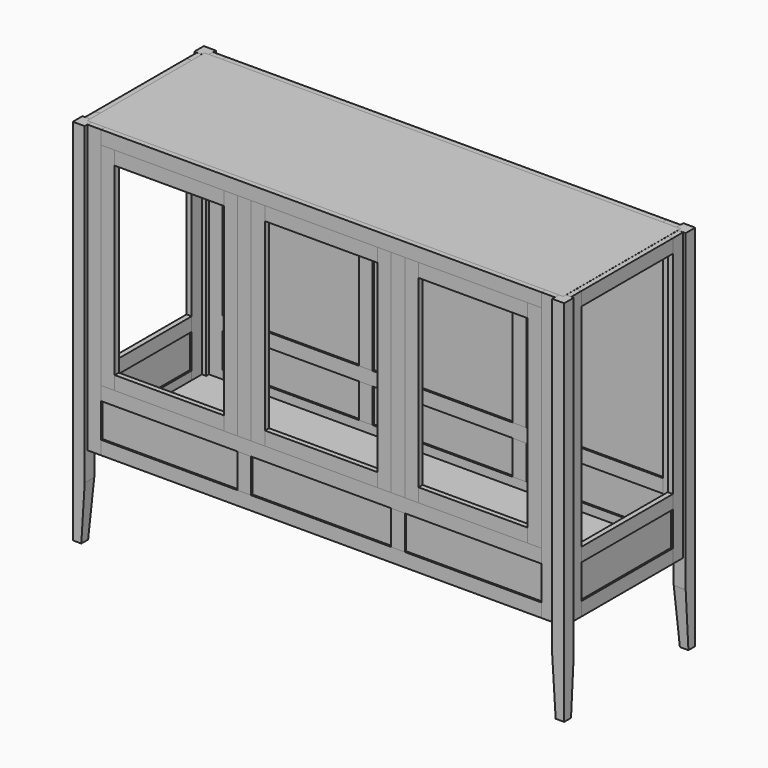
from build123d import *

# Parameters (mm, degrees)
F0_W      = 44.45
F0_H      = 1371.6
F1_DEPTH  = 44.45
F3_DEPTH  = 44.451
F5_DEPTH  = 44.451
F8_W      = 47.625
F8_H      = 1066.8
F9_DEPTH  = 19.05
F11_W     = 425.45
F11_H     = 50.8
F12_DEPTH = 19.05
F13_W     = 425.45
F13_H     = 50.8
F14_DEPTH = 19.05
F15_W     = 425.45
F15_H     = 50.8
F16_DEPTH = 19.05
F18_W     = 425.45
F18_H     = 127
F19_DEPTH = 6.35
F23_W     = 50.8
F23_H     = 1067.1170648575
F24_DEPTH = 19.05
F25_W     = 1638.3
F25_H     = 50.8
F26_DEPTH = 19.05
F28_W     = 1638.3
F28_H     = 50.8
F29_DEPTH = 19.05
F30_W     = 1638.3
F30_H     = 50.8
F31_DEPTH = 19.05
F32_W     = 50.8
F32_H     = 787.7170648575
F33_DEPTH = 19.05
F34_W     = 50.8
F34_H     = 127
F35_DEPTH = 19.05
F38_W     = 508
F38_H     = 127
F39_DEPTH = 6.35
F38_W_2   = 520.7
F41_W     = 50.8
F41_H     = 787.7170648575
F42_DEPTH = 19.05
F43_W     = 50.8
F43_H     = 787.7170648575
F44_DEPTH = 19.05
F45_W     = 406.4
F45_H     = 50.8
F46_DEPTH = 19.05
F47_W     = 406.4
F47_H     = 50.8
F48_DEPTH = 19.05
F50_W     = 50.8
F50_H     = 787.7170648575
F51_DEPTH = 19.05
F52_W     = 50.8
F52_H     = 787.7170648575
F53_DEPTH = 19.05
F54_W     = 419.1
F54_H     = 50.8
F55_DEPTH = 19.05
F56_W     = 419.1
F56_H     = 50.8
F57_DEPTH = 19.05
F58_W     = 508
F58_H     = 787.7170648575
F59_DEPTH = 6.35
F58_W_2   = 520.7
F60_W     = 1771.65
F60_H     = 546.1
F61_DEPTH = 19.05
F62_W     = 1771.65
F62_H     = 546.1
F63_DEPTH = 19.05


with BuildPart() as f1:
    # F0 (on Front) → F1 (new body)
    with BuildSketch(Plane.XZ):
        with Locations((-606.7248311718, 685.8)):
            Rectangle(F0_W, F0_H)
    extrude(amount=F1_DEPTH)

    # F2 (on face) → F3 (cut, through all)
    with BuildSketch(Plane.XZ.offset(44.45)):
        Polygon((-584.4998311718, 203.2), (-597.1998311718, 0), (-584.4998311718, 0), align=None)
    extrude(amount=-F3_DEPTH, mode=Mode.SUBTRACT)

    # F4 (on face) → F5 (cut, through all)
    with BuildSketch(Plane(origin=(-628.9498311718, 0, 0), x_dir=(0, -1, 0), z_dir=(-1, 0, 0))):
        Polygon((12.7, 0), (0, 203.2), (0, 0), align=None)
    extrude(amount=-F5_DEPTH, mode=Mode.SUBTRACT)

    # F8 (on offset) → F9 (join)
    with BuildSketch(Plane(origin=(-619.4248311718, 0, 0), x_dir=(0, -1, 0), z_dir=(-1, 0, 0))):
        with Locations((-23.8125, 837.8829351425)):
            Rectangle(F8_W, F8_H)
    extrude(amount=-F9_DEPTH)


with BuildPart() as f10_1:
    # F10: instance of F1
    add(f1.part.mirror(Plane(origin=(-607.1138401808, 260.35, 699.1636036036), x_dir=(1, 0, 0), z_dir=(0, -1, 0))))


with BuildPart() as f12:
    # F11 (on offset) → F12 (new body)
    with BuildSketch(Plane(origin=(-619.4248311718, 0, 0), x_dir=(0, -1, 0), z_dir=(-1, 0, 0))):
        with Locations((-260.35, 1345.8829351425)):
            Rectangle(F11_W, F11_H)
    extrude(amount=-F12_DEPTH)


with BuildPart() as f14:
    # F13 (on offset) → F14 (new body)
    with BuildSketch(Plane(origin=(-619.4248311718, 0, 0), x_dir=(0, -1, 0), z_dir=(-1, 0, 0))):
        with Locations((-260.35, 329.8829351425)):
            Rectangle(F13_W, F13_H)
    extrude(amount=-F14_DEPTH)


with BuildPart() as f16:
    # F15 (on offset) → F16 (new body)
    with BuildSketch(Plane(origin=(-619.4248311718, 0, 0), x_dir=(0, -1, 0), z_dir=(-1, 0, 0))):
        with Locations((-260.35, 507.6829351425)):
            Rectangle(F15_W, F15_H)
    extrude(amount=-F16_DEPTH)


with BuildPart() as f19:
    # F18 (on offset) → F19 (new body)
    with BuildSketch(Plane(origin=(-613.0748311718, 0, 0), x_dir=(0, -1, 0), z_dir=(-1, 0, 0))):
        with Locations((-260.35, 418.7829351425)):
            Rectangle(F18_W, F18_H)
    extrude(amount=-F19_DEPTH)


with BuildPart() as f21_1:
    # F21: instance of F1
    add(f1.part.mirror(Plane(origin=(285.4501688282, -22.614009009, 699.1636036036), x_dir=(0, -1, 0), z_dir=(-1, 0, 0))))


with BuildPart() as f21_2:
    # F21: instance of F14
    add(f14.part.mirror(Plane(origin=(285.4501688282, -22.614009009, 699.1636036036), x_dir=(0, -1, 0), z_dir=(-1, 0, 0))))


with BuildPart() as f21_3:
    # F21: instance of F12
    add(f12.part.mirror(Plane(origin=(285.4501688282, -22.614009009, 699.1636036036), x_dir=(0, -1, 0), z_dir=(-1, 0, 0))))


with BuildPart() as f21_4:
    # F21: instance of F10_1
    add(f10_1.part.mirror(Plane(origin=(285.4501688282, -22.614009009, 699.1636036036), x_dir=(0, -1, 0), z_dir=(-1, 0, 0))))


with BuildPart() as f21_5:
    # F21: instance of F16
    add(f16.part.mirror(Plane(origin=(285.4501688282, -22.614009009, 699.1636036036), x_dir=(0, -1, 0), z_dir=(-1, 0, 0))))


with BuildPart() as f21_6:
    # F21: instance of F19
    add(f19.part.mirror(Plane(origin=(285.4501688282, -22.614009009, 699.1636036036), x_dir=(0, -1, 0), z_dir=(-1, 0, 0))))


with BuildPart() as f24:
    # F23 (on offset) → F24 (new body)
    with BuildSketch(Plane.XZ.offset(31.75)):
        with Locations((-559.0998311718, 838.0414675713)):
            Rectangle(F23_W, F23_H)
    extrude(amount=-F24_DEPTH)


with BuildPart() as f26:
    # F25 (on offset) → F26 (new body)
    with BuildSketch(Plane.XZ.offset(31.75)):
        with Locations((285.4501688282, 1346.2)):
            Rectangle(F25_W, F25_H)
    extrude(amount=-F26_DEPTH)


with BuildPart() as f27_1:
    # F27: instance of F24
    add(f24.part.mirror(Plane(origin=(285.4501688282, -22.614009009, 699.1636036036), x_dir=(0, -1, 0), z_dir=(-1, 0, 0))))


with BuildPart() as f29:
    # F28 (on offset) → F29 (new body)
    with BuildSketch(Plane.XZ.offset(31.75)):
        with Locations((285.4501688282, 329.8829351425)):
            Rectangle(F28_W, F28_H)
    extrude(amount=-F29_DEPTH)


with BuildPart() as f31:
    # F30 (on offset) → F31 (new body)
    with BuildSketch(Plane.XZ.offset(31.75)):
        with Locations((285.4501688282, 507.6829351425)):
            Rectangle(F30_W, F30_H)
    extrude(amount=-F31_DEPTH)


with BuildPart() as f33:
    # F32 (on offset) → F33 (new body)
    with BuildSketch(Plane.XZ.offset(31.75)):
        with Locations((-0.2998311718, 926.9414675713)):
            Rectangle(F32_W, F32_H)
    extrude(amount=-F33_DEPTH)


with BuildPart() as f35:
    # F34 (on offset) → F35 (new body)
    with BuildSketch(Plane.XZ.offset(31.75)):
        with Locations((-0.2998311718, 418.7829351425)):
            Rectangle(F34_W, F34_H)
    extrude(amount=-F35_DEPTH)


with BuildPart() as f36_1:
    # F36: instance of F33
    add(f33.part.mirror(Plane(origin=(285.4501688282, -22.614009009, 699.1636036036), x_dir=(0, -1, 0), z_dir=(-1, 0, 0))))


with BuildPart() as f36_2:
    # F36: instance of F35
    add(f35.part.mirror(Plane(origin=(285.4501688282, -22.614009009, 699.1636036036), x_dir=(0, -1, 0), z_dir=(-1, 0, 0))))


with BuildPart() as f39:
    # F38 (on offset) → F39 (new body)
    with BuildSketch(Plane.XZ.offset(25.4)):
        with Locations((-279.6998311718, 418.7829351425)):
            Rectangle(F38_W, F38_H)
    extrude(amount=-F39_DEPTH)


with BuildPart() as f39b:
    # F38 (on offset) → F39, piece 2 (new body)
    with BuildSketch(Plane.XZ.offset(25.4)):
        with Locations((285.4501688282, 418.7829351425)):
            Rectangle(F38_W_2, F38_H)
    extrude(amount=-F39_DEPTH)


with BuildPart() as f39c:
    # F38 (on offset) → F39, piece 3 (new body)
    with BuildSketch(Plane.XZ.offset(25.4)):
        with Locations((850.6001688282, 418.7829351425)):
            Rectangle(F38_W, F38_H)
    extrude(amount=-F39_DEPTH)


with BuildPart() as f40_1:
    # F40: instance of F24
    add(f24.part.mirror(Plane(origin=(-607.1138401808, 260.35, 699.1636036036), x_dir=(1, 0, 0), z_dir=(0, -1, 0))))


with BuildPart() as f40_2:
    # F40: instance of F26
    add(f26.part.mirror(Plane(origin=(-607.1138401808, 260.35, 699.1636036036), x_dir=(1, 0, 0), z_dir=(0, -1, 0))))


with BuildPart() as f40_3:
    # F40: instance of F33
    add(f33.part.mirror(Plane(origin=(-607.1138401808, 260.35, 699.1636036036), x_dir=(1, 0, 0), z_dir=(0, -1, 0))))


with BuildPart() as f40_4:
    # F40: instance of F36_1
    add(f36_1.part.mirror(Plane(origin=(-607.1138401808, 260.35, 699.1636036036), x_dir=(1, 0, 0), z_dir=(0, -1, 0))))


with BuildPart() as f40_5:
    # F40: instance of F27_1
    add(f27_1.part.mirror(Plane(origin=(-607.1138401808, 260.35, 699.1636036036), x_dir=(1, 0, 0), z_dir=(0, -1, 0))))


with BuildPart() as f40_6:
    # F40: instance of F31
    add(f31.part.mirror(Plane(origin=(-607.1138401808, 260.35, 699.1636036036), x_dir=(1, 0, 0), z_dir=(0, -1, 0))))


with BuildPart() as f40_7:
    # F40: instance of F29
    add(f29.part.mirror(Plane(origin=(-607.1138401808, 260.35, 699.1636036036), x_dir=(1, 0, 0), z_dir=(0, -1, 0))))


with BuildPart() as f40_8:
    # F40: instance of F36_2
    add(f36_2.part.mirror(Plane(origin=(-607.1138401808, 260.35, 699.1636036036), x_dir=(1, 0, 0), z_dir=(0, -1, 0))))


with BuildPart() as f40_9:
    # F40: instance of F35
    add(f35.part.mirror(Plane(origin=(-607.1138401808, 260.35, 699.1636036036), x_dir=(1, 0, 0), z_dir=(0, -1, 0))))


with BuildPart() as f40_10:
    # F40: instance of F39
    add(f39.part.mirror(Plane(origin=(-607.1138401808, 260.35, 699.1636036036), x_dir=(1, 0, 0), z_dir=(0, -1, 0))))


with BuildPart() as f40_11:
    # F40: instance of F39b
    add(f39b.part.mirror(Plane(origin=(-607.1138401808, 260.35, 699.1636036036), x_dir=(1, 0, 0), z_dir=(0, -1, 0))))


with BuildPart() as f40_12:
    # F40: instance of F39c
    add(f39c.part.mirror(Plane(origin=(-607.1138401808, 260.35, 699.1636036036), x_dir=(1, 0, 0), z_dir=(0, -1, 0))))


with BuildPart() as f42:
    # F41 (on offset) → F42 (new body)
    with BuildSketch(Plane.XZ.offset(31.75)):
        with Locations((-508.2998311718, 926.9414675713)):
            Rectangle(F41_W, F41_H)
    extrude(amount=-F42_DEPTH)


with BuildPart() as f44:
    # F43 (on offset) → F44 (new body)
    with BuildSketch(Plane.XZ.offset(31.75)):
        with Locations((-51.0998311718, 926.9414675713)):
            Rectangle(F43_W, F43_H)
    extrude(amount=-F44_DEPTH)


with BuildPart() as f46:
    # F45 (on offset) → F46 (new body)
    with BuildSketch(Plane.XZ.offset(31.75)):
        with Locations((-279.6998311718, 1295.4)):
            Rectangle(F45_W, F45_H)
    extrude(amount=-F46_DEPTH)


with BuildPart() as f48:
    # F47 (on offset) → F48 (new body)
    with BuildSketch(Plane.XZ.offset(31.75)):
        with Locations((-279.6998311718, 558.4829351425)):
            Rectangle(F47_W, F47_H)
    extrude(amount=-F48_DEPTH)


with BuildPart() as f49_1:
    # F49: instance of F42
    add(f42.part.mirror(Plane(origin=(285.4501688282, -22.614009009, 699.1636036036), x_dir=(0, -1, 0), z_dir=(-1, 0, 0))))


with BuildPart() as f49_2:
    # F49: instance of F46
    add(f46.part.mirror(Plane(origin=(285.4501688282, -22.614009009, 699.1636036036), x_dir=(0, -1, 0), z_dir=(-1, 0, 0))))


with BuildPart() as f49_3:
    # F49: instance of F44
    add(f44.part.mirror(Plane(origin=(285.4501688282, -22.614009009, 699.1636036036), x_dir=(0, -1, 0), z_dir=(-1, 0, 0))))


with BuildPart() as f49_4:
    # F49: instance of F48
    add(f48.part.mirror(Plane(origin=(285.4501688282, -22.614009009, 699.1636036036), x_dir=(0, -1, 0), z_dir=(-1, 0, 0))))


with BuildPart() as f51:
    # F50 (on offset) → F51 (new body)
    with BuildSketch(Plane.XZ.offset(31.75)):
        with Locations((50.5001688282, 926.9414675713)):
            Rectangle(F50_W, F50_H)
    extrude(amount=-F51_DEPTH)


with BuildPart() as f53:
    # F52 (on offset) → F53 (new body)
    with BuildSketch(Plane.XZ.offset(31.75)):
        with Locations((520.4001688282, 926.9414675713)):
            Rectangle(F52_W, F52_H)
    extrude(amount=-F53_DEPTH)


with BuildPart() as f55:
    # F54 (on offset) → F55 (new body)
    with BuildSketch(Plane.XZ.offset(31.75)):
        with Locations((285.4501688282, 1295.4)):
            Rectangle(F54_W, F54_H)
    extrude(amount=-F55_DEPTH)


with BuildPart() as f57:
    # F56 (on offset) → F57 (new body)
    with BuildSketch(Plane.XZ.offset(31.75)):
        with Locations((285.4501688282, 558.4829351425)):
            Rectangle(F56_W, F56_H)
    extrude(amount=-F57_DEPTH)


with BuildPart() as f59:
    # F58 (on face) → F59 (new body)
    with BuildSketch(Plane(origin=(0, 546.1, 0), x_dir=(-1, 0, 0), z_dir=(0, 1, 0))):
        with Locations((-850.6001688282, 926.9414675713)):
            Rectangle(F58_W, F58_H)
    extrude(amount=-F59_DEPTH)


with BuildPart() as f59b:
    # F58 (on face) → F59, piece 2 (new body)
    with BuildSketch(Plane(origin=(0, 546.1, 0), x_dir=(-1, 0, 0), z_dir=(0, 1, 0))):
        with Locations((-285.4501688282, 926.9414675713)):
            Rectangle(F58_W_2, F58_H)
    extrude(amount=-F59_DEPTH)


with BuildPart() as f59c:
    # F58 (on face) → F59, piece 3 (new body)
    with BuildSketch(Plane(origin=(0, 546.1, 0), x_dir=(-1, 0, 0), z_dir=(0, 1, 0))):
        with Locations((279.6998311718, 926.9414675713)):
            Rectangle(F58_W, F58_H)
    extrude(amount=-F59_DEPTH)


with BuildPart() as f61:
    # F60 (on face) → F61 (new body)
    with BuildSketch(Plane.XY.offset(1371.6)):
        with Locations((285.4501688282, 260.35)):
            Rectangle(F60_W, F60_H)
    extrude(amount=-F61_DEPTH)


with BuildPart() as f63:
    # F62 (on face) → F63 (new body)
    with BuildSketch(Plane(origin=(0, 0, 304.4829351425), x_dir=(1, 0, 0), z_dir=(0, 0, -1))):
        with Locations((285.4501688282, -260.35)):
            Rectangle(F62_W, F62_H)
    extrude(amount=-F63_DEPTH)


solid = Compound([f1.part, f10_1.part, f12.part, f14.part, f16.part, f19.part, f21_1.part, f21_2.part, f21_3.part, f21_4.part, f21_5.part, f21_6.part, f24.part, f26.part, f27_1.part, f29.part, f31.part, f33.part, f35.part, f36_1.part, f36_2.part, f39.part, f39b.part, f39c.part, f40_1.part, f40_2.part, f40_3.part, f40_4.part, f40_5.part, f40_6.part, f40_7.part, f40_8.part, f40_9.part, f40_10.part, f40_11.part, f40_12.part, f42.part, f44.part, f46.part, f48.part, f49_1.part, f49_2.part, f49_3.part, f49_4.part, f51.part, f53.part, f55.part, f57.part, f59.part, f59b.part, f59c.part, f61.part, f63.part])
